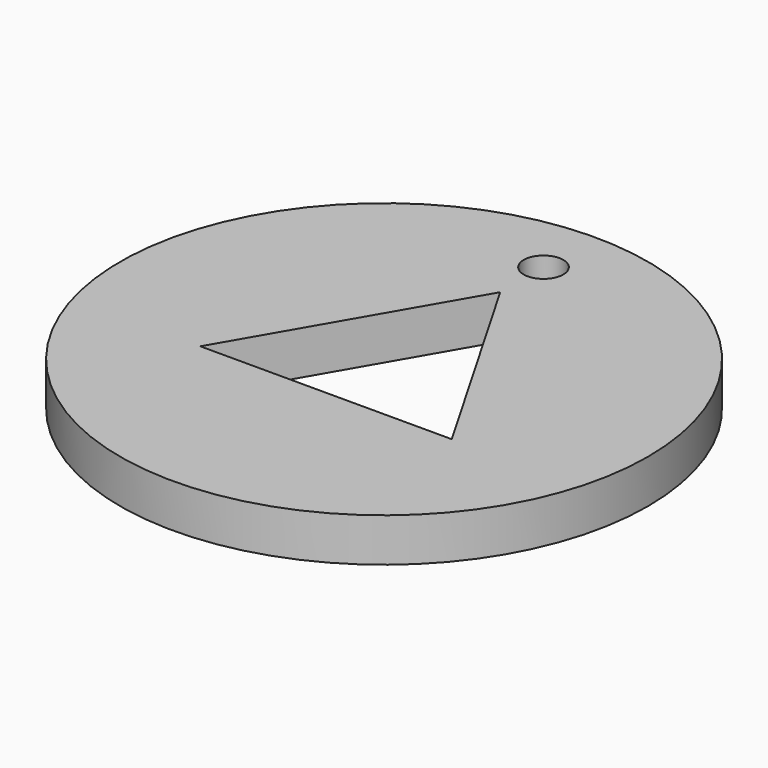
from build123d import *

# Parameters (mm, degrees)
CYLINDER_R      = 20
CYLINDER_DEPTH  = 3.3
SKETCH_R        = 1.5
POCKET_DEPTH    = 3.301
POCKET001_DEPTH = 3.301


with BuildPart() as part:
    # Cylinder → Cylinder (new body)
    with BuildSketch(Plane.XY):
        Circle(CYLINDER_R)
    extrude(amount=CYLINDER_DEPTH)

    # Sketch (on Face2 of Cylinder) → Pocket (cut, through all)
    with BuildSketch(Plane.XY.offset(3.3)):
        with Locations((0, 15.1)):
            Circle(SKETCH_R)
    extrude(amount=-POCKET_DEPTH, mode=Mode.SUBTRACT)

    # Sketch005 (on Face1 of CopyClone001) → Pocket001 (cut, through all)
    with BuildSketch(Plane.XY.offset(3.3)):
        Polygon((-9.526279, -5.5), (0, 11), (9.526279, -5.5), align=None)
    extrude(amount=-POCKET001_DEPTH, mode=Mode.SUBTRACT)


solid = part.part
